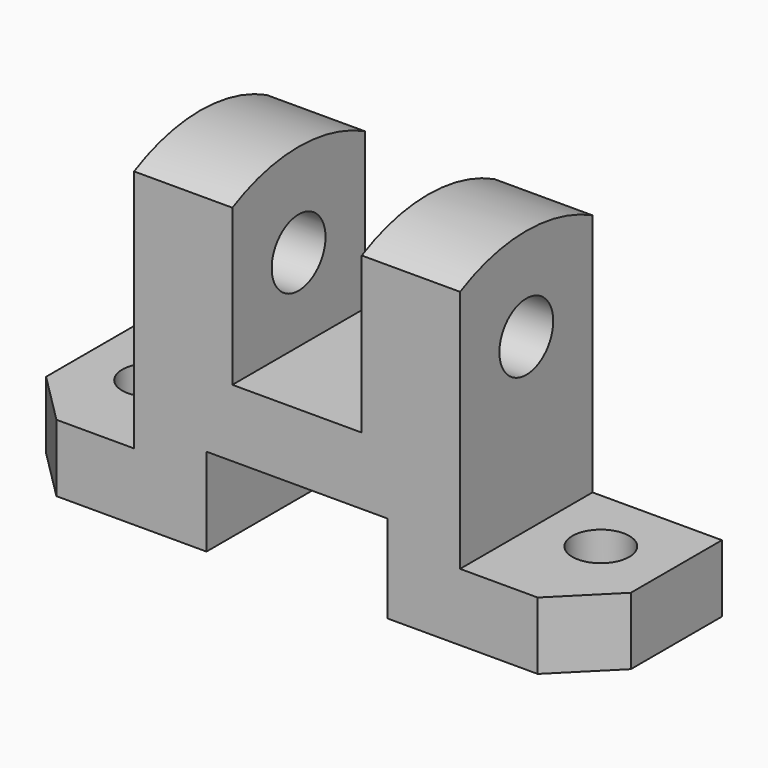
from build123d import *

# Parameters (mm, degrees)
F1_DEPTH  = 113
F2_R      = 6.5
F3_DEPTH  = 113.001
F4_W      = 25
F4_H      = 51
F5_DEPTH  = 32.001
F6_W      = 25
F6_H      = 34
F7_DEPTH  = 32.001
F8_W      = 35
F8_H      = 17
F9_DEPTH  = 32.001
F10_R     = 5.5
F11_DEPTH = 64.001


with BuildPart() as f1:
    # F0 (on Right) → F1 (new body)
    with BuildSketch(Plane.YZ):
        with BuildLine():
            ThreePointArc((16, 60.128765), (0, 64), (-16, 60.128765))
            Line((-16, 60.128765), (-16, 0))
            Line((-16, 0), (16, 0))
            Line((16, 0), (16, 60.128765))
        make_face()
    extrude(amount=F1_DEPTH)

    # F2 (on face) → F3 (cut, through all)
    with BuildSketch(Plane.YZ.offset(113)):
        with Locations((0, 46)):
            Circle(F2_R)
    extrude(amount=-F3_DEPTH, mode=Mode.SUBTRACT)

    # F4 (on face) → F5 (cut, through all)
    with BuildSketch(Plane.XZ.offset(16)):
        with Locations((12.5, 38.5)):
            Rectangle(F4_W, F4_H)
        with Locations((100.5, 38.5)):
            Rectangle(F4_W, F4_H)
    extrude(amount=-F5_DEPTH, mode=Mode.SUBTRACT)

    # F6 (on face) → F7 (cut, through all)
    with BuildSketch(Plane.XZ.offset(16)):
        with Locations((56.5, 47)):
            Rectangle(F6_W, F6_H)
    extrude(amount=-F7_DEPTH, mode=Mode.SUBTRACT)

    # F8 (on face) → F9 (cut, through all)
    with BuildSketch(Plane.XZ.offset(16)):
        with Locations((56.5, 8.5)):
            Rectangle(F8_W, F8_H)
    extrude(amount=-F9_DEPTH, mode=Mode.SUBTRACT)

    # F10 (on Top) → F11 (cut, through all)
    with BuildSketch(Plane.XY):
        with Locations((13, 3)):
            Circle(F10_R)
        with Locations((100, 3)):
            Circle(F10_R)
        Polygon((10, -16), (0, -6), (0, -16), align=None)
        Polygon((113, -16), (113, -6), (103, -16), align=None)
    extrude(amount=F11_DEPTH, mode=Mode.SUBTRACT)


solid = f1.part
